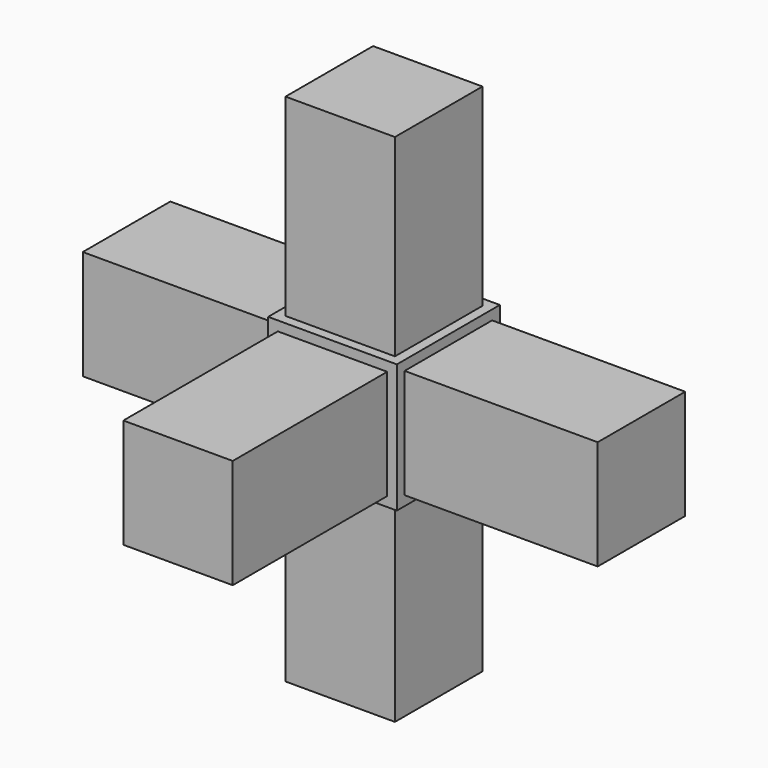
from build123d import *

# Parameters (mm, degrees)
F1_DEPTH = 20
F2_START = 1.5
F2_DEPTH = 17
F3_W     = 17
F3_H     = 17
F4_DEPTH = 30
F5_W     = 17
F5_H     = 17
F6_DEPTH = 30
F7_W     = 17
F7_H     = 17
F8_DEPTH = 30


with BuildPart() as f1:
    # F0 (on Top) → F1 (new body)
    with BuildSketch(Plane.XY):
        Polygon((8.5, -10), (10, -10), (10, 10), (-10, 10), (-10, 8.5), (-10, 0), (-10, -8.5), (-10, -10), (-8.5, -10), (0, -10), align=None)
    extrude(amount=F1_DEPTH)

    # F0 (on Top) → F2 (join)
    with BuildSketch(Plane.XY.offset(F2_START)):
        Polygon((-10, 0), (-10, 8.5), (-40, 8.5), (-40, -8.5), (-10, -8.5), align=None)
        Polygon((8.5, -40), (8.5, -10), (0, -10), (-8.5, -10), (-8.5, -40), align=None)
    extrude(amount=F2_DEPTH)

    # F3 (on face) → F4 (join)
    with BuildSketch(Plane.XY.offset(20)):
        Rectangle(F3_W, F3_H)
    extrude(amount=F4_DEPTH)

    # F5 (on face) → F6 (join)
    with BuildSketch(Plane(origin=(0, 0, 0), x_dir=(1, 0, 0), z_dir=(0, 0, -1))):
        Rectangle(F5_W, F5_H)
    extrude(amount=F6_DEPTH)

    # F7 (on face) → F8 (join)
    with BuildSketch(Plane.YZ.offset(10)):
        with Locations((0, 10)):
            Rectangle(F7_W, F7_H)
    extrude(amount=F8_DEPTH)


solid = f1.part
